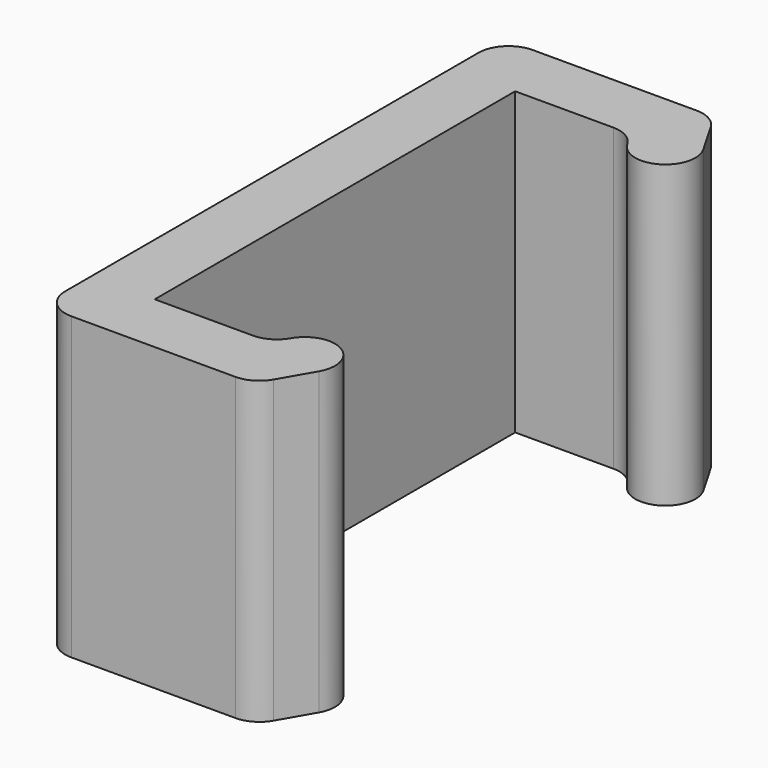
from build123d import *

# Parameters (mm, degrees)
F1_DEPTH = 10


with BuildPart() as f1:
    # F0 (on Top) → F1 (new body)
    with BuildSketch(Plane.XY):
        with BuildLine():
            Line((-2.5, -7.5), (-2.5, 7.5))
            Line((-2.5, 7.5), (0.767949, 7.5))
            ThreePointArc((0.767949, 7.5), (1.267949, 7.366025), (1.633975, 7))
            ThreePointArc((1.633975, 7), (3, 6.633975), (3.366025, 8))
            Line((3.366025, 8), (2.73094, 9.1))
            ThreePointArc((2.73094, 9.1), (2.364915, 9.466025), (1.864915, 9.6))
            Line((1.864915, 9.6), (-3.6, 9.6))
            ThreePointArc((-3.6, 9.6), (-4.307107, 9.307107), (-4.6, 8.6))
            Line((-4.6, 8.6), (-4.6, -8.6))
            ThreePointArc((-4.6, -8.6), (-4.307107, -9.307107), (-3.6, -9.6))
            Line((-3.6, -9.6), (1.864915, -9.6))
            ThreePointArc((1.864915, -9.6), (2.364915, -9.466025), (2.73094, -9.1))
            Line((2.73094, -9.1), (3.366025, -8))
            ThreePointArc((3.366025, -8), (3, -6.633975), (1.633975, -7))
            ThreePointArc((1.633975, -7), (1.267949, -7.366025), (0.767949, -7.5))
            Line((0.767949, -7.5), (-2.5, -7.5))
        make_face()
    extrude(amount=F1_DEPTH)


solid = f1.part
